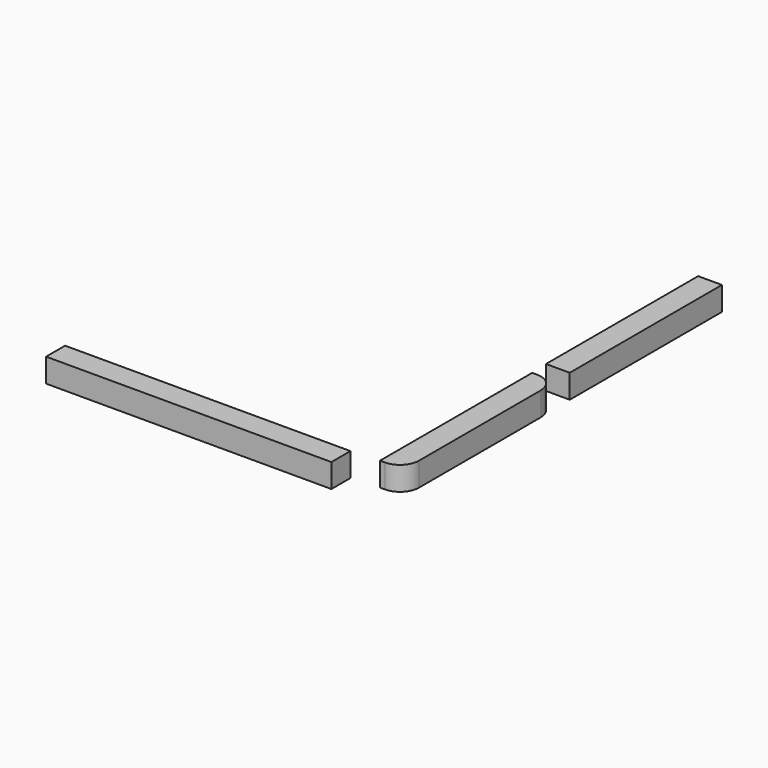
from build123d import *

# Parameters (mm, degrees)
F0_W     = 76.2
F0_H     = 6.35
F1_DEPTH = 6.35
F2_W     = 50.8
F2_H     = 6.35
F3_DEPTH = 6.35
F4_W     = 50.8
F4_H     = 6.35
F5_DEPTH = 6.35
F6_R     = 5.08


with BuildPart() as f1:
    # F0 (on Front) → F1 (new body)
    with BuildSketch(Plane.XZ):
        with Locations((-38.1, 31.196937)):
            Rectangle(F0_W, F0_H)
    extrude(amount=F1_DEPTH)


with BuildPart() as f3:
    # F2 (on Right) → F3 (new body)
    with BuildSketch(Plane.YZ):
        with Locations((90.672327, 25.140912)):
            Rectangle(F2_W, F2_H)
    extrude(amount=F3_DEPTH)


with BuildPart() as f5:
    # F4 (on Right) → F5 (new body)
    with BuildSketch(Plane.YZ):
        with Locations((35.278583, 24.92887)):
            Rectangle(F4_W, F4_H)
    extrude(amount=F5_DEPTH)

    # F6
    f6_edges = [f5.edges().sort_by_distance(p)[0] for p in [
        (6.35, 9.878583, 24.92887),
        (6.35, 60.678583, 24.92887),
    ]]
    fillet(f6_edges, radius=F6_R)


solid = Compound([f1.part, f3.part, f5.part])
